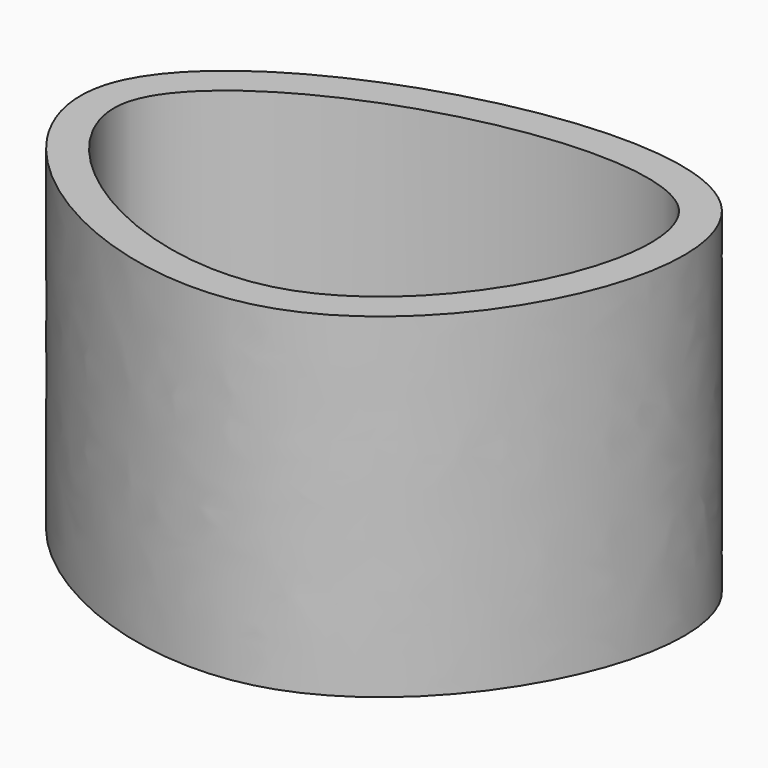
from build123d import *

# Parameters (mm, degrees)
F1_DEPTH = 25
F2_T     = -2.5


with BuildPart() as f1:
    # F0 (on Top) → F1 (new body)
    with BuildSketch(Plane.XY):
        with BuildLine():
            add(Edge.make_bspline(
                [(-167.330160737, -101.4515683055), (-169.8681775196, -110.2480800782), (-138.9276419071, -131.6189006877), (-114.3932378729, -76.9309299867), (-164.4113527501, -91.3352723865), (-167.330160737, -101.4515683055)],
                knots=[0, 0, 0, 0, 0.3166353831, 0.6358582451, 1, 1, 1, 1], degree=3))
        make_face()
    extrude(amount=F1_DEPTH)

    # F2
    f2_openings = [f1.faces().sort_by_distance(p)[0] for p in [
        (-146.869685, -102.688907, 25),
    ]]
    offset(amount=F2_T, openings=f2_openings)


solid = f1.part
